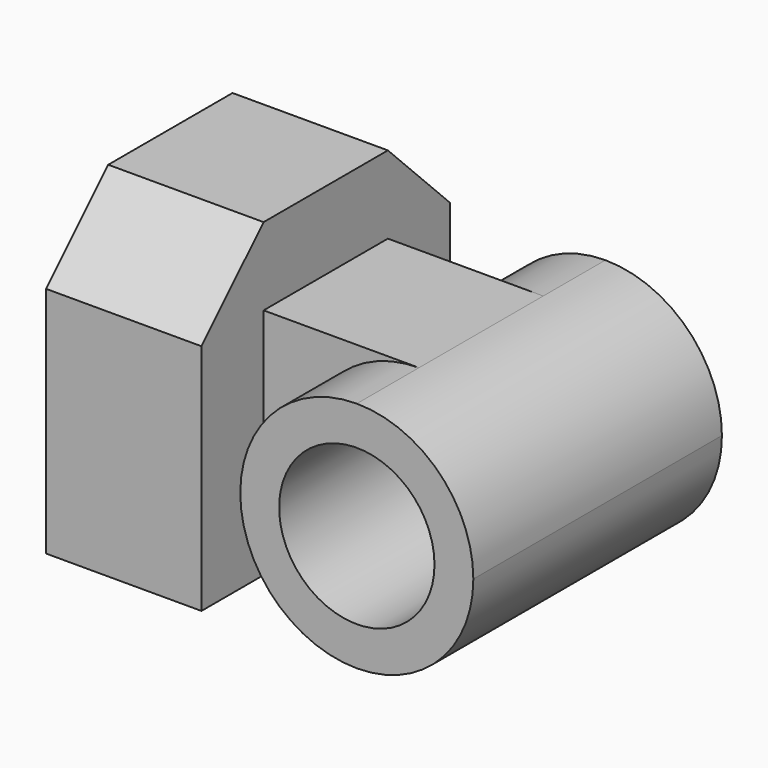
from build123d import *

# Parameters (mm, degrees)
F1_DEPTH = 12.7
F2_R     = 6.35
F3_DEPTH = 12.7
F4_DEPTH = 6.35


with BuildPart() as f1:
    # F0 (on Right) → F1 (new body)
    with BuildSketch(Plane.YZ):
        Polygon((-12.7, 0), (0, 0), (12.7, 0), (12.7, 19.05), (6.35, 25.4), (-6.35, 25.4), (-12.7, 19.05), align=None)
    extrude(amount=F1_DEPTH)


with BuildPart() as f3:
    # F2 (on Front) → F3 (new body, symmetric)
    with BuildSketch(Plane.XZ):
        with BuildLine():
            ThreePointArc((25.4, 19.05), (15.875, 9.525), (25.4, 0))
            ThreePointArc((25.4, 0), (32.135192, 2.789808), (34.925, 9.525))
            ThreePointArc((34.925, 9.525), (32.135192, 16.260192), (25.4, 19.05))
        make_face()
        with Locations((25.4, 9.525)):
            Circle(F2_R, mode=Mode.SUBTRACT)
    extrude(amount=F3_DEPTH, both=True)


with BuildPart() as f4:
    # F2 (on Front) → F4 (new body, symmetric)
    with BuildSketch(Plane.XZ):
        with BuildLine():
            Line((12.7, 19.05), (12.7, 0))
            Line((12.7, 0), (25.4, 0))
            ThreePointArc((25.4, 0), (15.875, 9.525), (25.4, 19.05))
            Line((25.4, 19.05), (12.7, 19.05))
        make_face()
    extrude(amount=F4_DEPTH, both=True)


solid = Compound([f1.part, f3.part, f4.part])
